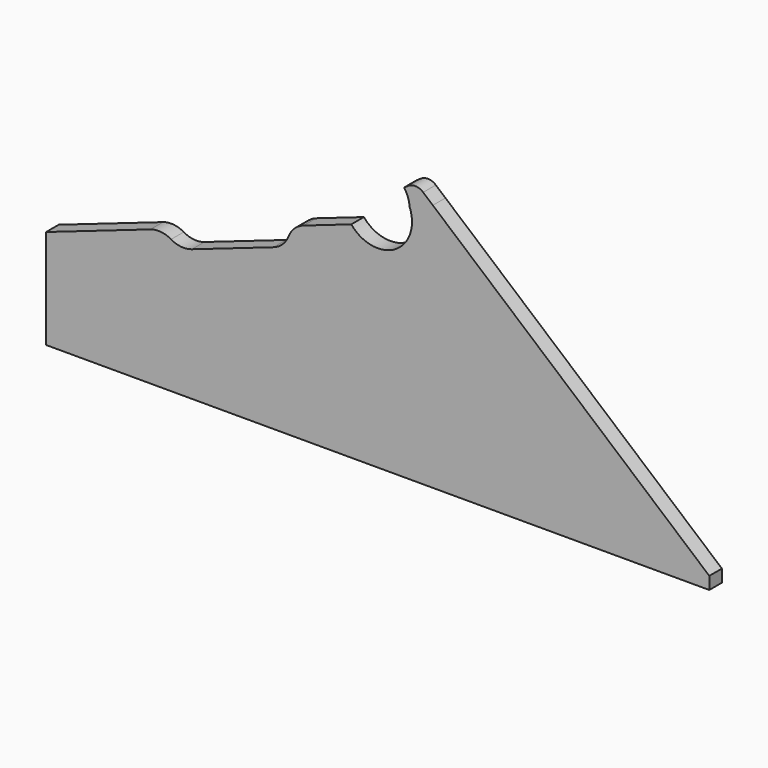
from build123d import *

# Parameters (mm, degrees)
PAD005_DEPTH    = 6.35
SKETCH014_W     = 3.141259
SKETCH014_H     = 4.397751
PAD011_DEPTH    = 6.35
SKETCH015_W     = 9.97554
SKETCH015_H     = 9.591858
PAD012_DEPTH    = 6.35
POCKET001_DEPTH = 6.35
PAD016_DEPTH    = 6.35


with BuildPart() as part:
    # Sketch006 (on Face1 of ShapeBinder007) → Pad005 (new body)
    with BuildSketch(Plane.XZ.offset(49.8)):
        with BuildLine():
            Line((133.35, 169.55), (-133.35, 169.55))
            Line((-133.35, 169.55), (-133.35, 209.55))
            Line((-10.630146, 252.168791), (-133.35, 209.55))
            ThreePointArc((-10.630146, 252.168791), (6.989684, 249.06987), (12.862348, 265.968791))
            Line((12.862348, 265.968791), (22.18289, 269.591979))
            Line((133.35, 174.55), (22.18289, 269.591979))
            Line((133.35, 169.55), (133.35, 174.55))
        make_face()
    extrude(amount=-PAD005_DEPTH)

    # Sketch014 (on Face8 of Pad005) → Pad011 (join)
    with BuildSketch(Plane.XZ.offset(49.8)):
        with Locations((-75.779384, 200.48986)):
            Rectangle(SKETCH014_W, SKETCH014_H)
    extrude(amount=-PAD011_DEPTH)

    # Sketch015 (on Face8 of Pad011) → Pad012 (join)
    with BuildSketch(Plane.XZ.offset(49.8)):
        with Locations((45.684311, 201.652512)):
            Rectangle(SKETCH015_W, SKETCH015_H)
    extrude(amount=-PAD012_DEPTH)

    # Sketch050 (on Face8 of Pad012) → Pocket001 (cut)
    with BuildSketch(Plane.XZ.offset(49.8)):
        with BuildLine():
            ThreePointArc((-83.081656, 223.304195), (-87.155196, 224.622491), (-91.406711, 224.116284))
            Line((-91.406711, 224.116284), (-93.047035, 228.83956))
            Line((-93.047035, 228.83956), (-31.459503, 250.228))
            Line((-31.459503, 250.228), (-29.819179, 245.504724))
            ThreePointArc((-29.819179, 245.504724), (-33.469298, 243.26681), (-35.848895, 239.707435))
            ThreePointArc((-41.878611, 233.910146), (-38.228492, 236.14806), (-35.848895, 239.707435))
            Line((-41.878611, 233.910146), (-74.756601, 222.492106))
            ThreePointArc((-83.081656, 223.304195), (-79.008116, 221.985899), (-74.756601, 222.492106))
        make_face()
    extrude(amount=-POCKET001_DEPTH, mode=Mode.SUBTRACT)

    # Sketch051 (on Face4 of Pocket001) → Pad016 (join)
    with BuildSketch(Plane.XZ.offset(49.8)):
        with BuildLine():
            ThreePointArc((12.862348, 265.968791), (12.157812, 269.203321), (10.647338, 272.149))
            Line((10.647338, 272.149), (12.307973, 273.263581))
            ThreePointArc((18.295876, 272.91517), (15.360549, 274.096912), (12.307973, 273.263581))
            Line((18.295876, 272.91517), (22.18289, 269.591979))
            Line((22.18289, 269.591979), (12.862348, 265.968791))
        make_face()
    extrude(amount=-PAD016_DEPTH)


solid = part.part
